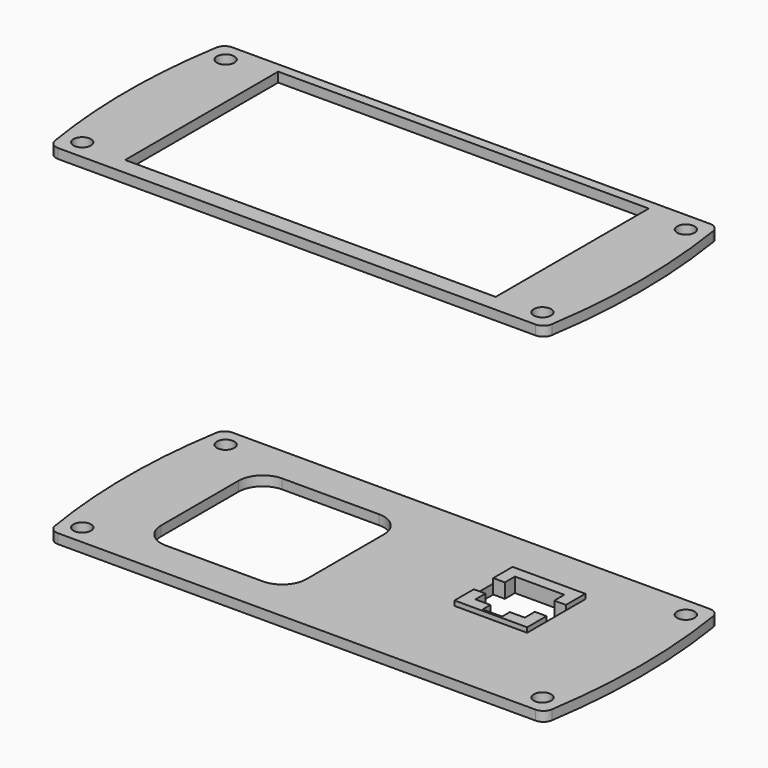
from build123d import *

# Parameters (mm, degrees)
F0_R     = 1.8
F0_W     = 76.5
F0_H     = 39.5
F1_DEPTH = 2
F3_R     = 1.8
F4_DEPTH = 2
F5_DEPTH = 3


with BuildPart() as f1:
    # F0 (on Top) → F1 (new body)
    with BuildSketch(Plane.XY):
        with BuildLine():
            ThreePointArc((-49.315213, 22.5), (-50.608846, 22.025292), (-51.28838, 20.826514))
            ThreePointArc((-51.28838, 20.826514), (-52.9999, 0), (-51.28838, -20.826514))
            ThreePointArc((-51.28838, -20.826514), (-50.608846, -22.025292), (-49.315213, -22.5))
            Line((-49.315213, -22.5), (49.301112, -22.5))
            ThreePointArc((49.301112, -22.5), (50.6008, -22.020136), (51.276814, -20.810813))
            ThreePointArc((51.276814, -20.810813), (52.903764, 0), (51.276814, 20.810813))
            ThreePointArc((51.276814, 20.810813), (50.6008, 22.020136), (49.301112, 22.5))
            Line((49.301112, 22.5), (-49.315213, 22.5))
        make_face()
        with Locations((-47.5, -18.5)):
            Circle(F0_R, mode=Mode.SUBTRACT)
        with Locations((47.5, -18.5)):
            Circle(F0_R, mode=Mode.SUBTRACT)
        with Locations((-47.5, 18.5)):
            Circle(F0_R, mode=Mode.SUBTRACT)
        with Locations((0, 0.75)):
            Rectangle(F0_W, F0_H, mode=Mode.SUBTRACT)
        with Locations((47.5, 18.5)):
            Circle(F0_R, mode=Mode.SUBTRACT)
    extrude(amount=F1_DEPTH)


with BuildPart() as f4:
    # F3 (on offset) → F4 (new body)
    with BuildSketch(Plane.XY.offset(-70)):
        with BuildLine():
            ThreePointArc((-49.315213, 22.5), (-50.608846, 22.025292), (-51.28838, 20.826514))
            ThreePointArc((-51.28838, 20.826514), (-52.9999, 0), (-51.28838, -20.826514))
            ThreePointArc((-51.28838, -20.826514), (-50.608846, -22.025292), (-49.315213, -22.5))
            Line((-49.315213, -22.5), (49.301112, -22.5))
            ThreePointArc((49.301112, -22.5), (50.6008, -22.020136), (51.276814, -20.810813))
            ThreePointArc((51.276814, -20.810813), (52.903764, 0), (51.276814, 20.810813))
            ThreePointArc((51.276814, 20.810813), (50.6008, 22.020136), (49.301112, 22.5))
            Line((49.301112, 22.5), (-49.315213, 22.5))
        make_face()
        with Locations((-47.5, -18.5)):
            Circle(F3_R, mode=Mode.SUBTRACT)
        with Locations((47.5, -18.5)):
            Circle(F3_R, mode=Mode.SUBTRACT)
        with BuildLine():
            Line((-13.02225, -15), (-33.02225, -15))
            ThreePointArc((-33.02225, -15), (-36.557784, -13.535534), (-38.02225, -10))
            Line((-38.02225, -10), (-38.02225, 10))
            ThreePointArc((-38.02225, 10), (-36.557784, 13.535534), (-33.02225, 15))
            Line((-33.02225, 15), (-13.02225, 15))
            ThreePointArc((-13.02225, 15), (-9.486716, 13.535534), (-8.02225, 10))
            Line((-8.02225, 10), (-8.02225, -10))
            ThreePointArc((-8.02225, -10), (-9.486716, -13.535534), (-13.02225, -15))
        make_face(mode=Mode.SUBTRACT)
        with Locations((-47.5, 18.5)):
            Circle(F3_R, mode=Mode.SUBTRACT)
        Polygon((16.462328, -2.4), (16.462328, 2.6), (16.462328, 7.6), (16.462328, 12.6), (31.462328, 12.6), (31.462328, 7.6), (31.462328, 2.6), (31.462328, -2.4), align=None, mode=Mode.SUBTRACT)
        with Locations((47.5, 18.5)):
            Circle(F3_R, mode=Mode.SUBTRACT)
    extrude(amount=F4_DEPTH)

    # F3 (on offset) → F5 (join)
    with BuildSketch(Plane.XY.offset(-70)):
        Polygon((16.462328, 7.6), (18.862328, 7.6), (18.862328, 10.2), (29.062328, 10.2), (29.062328, 7.6), (31.462328, 7.6), (31.462328, 12.6), (16.462328, 12.6), align=None)
        Polygon((21.962328, 0), (18.862328, 0), (18.862328, 2.6), (16.462328, 2.6), (16.462328, -2.4), (31.462328, -2.4), (31.462328, 2.6), (29.062328, 2.6), (29.062328, 0), (25.962328, 0), (25.962328, -2), (21.962328, -2), align=None)
    extrude(amount=F5_DEPTH)


solid = Compound([f1.part, f4.part])
